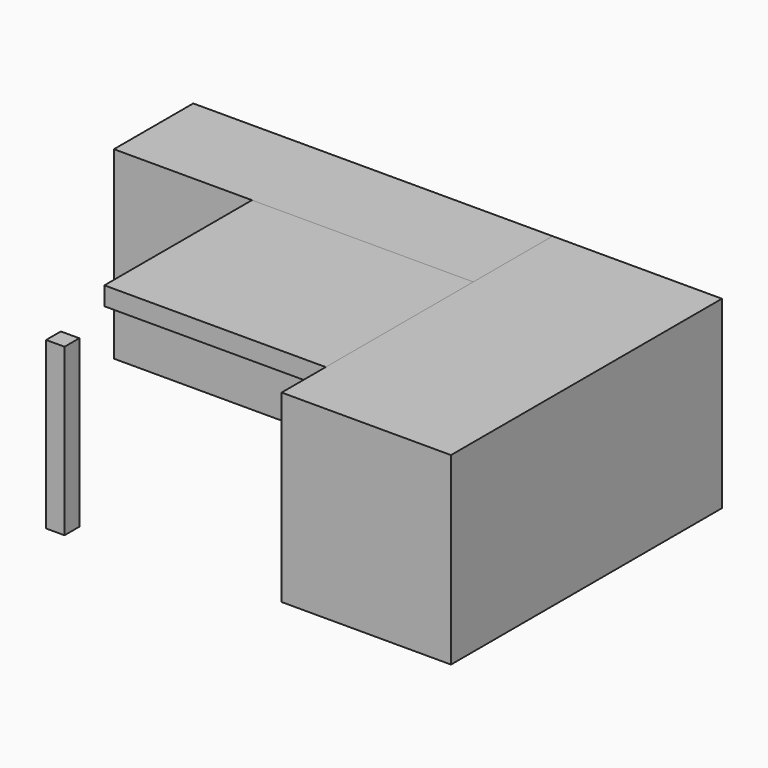
from build123d import *

# Parameters (mm, degrees)
F0_W     = 23.3204513788
F0_H     = 46.6408990324
F1_DEPTH = 25.4
F2_W     = 49.4848564267
F2_H     = 13.650995912
F3_DEPTH = 25.4
F4_W     = 30.48
F4_H     = 25.4
F5_DEPTH = 2.54
F7_W     = 2.54
F7_H     = 2.54
F8_DEPTH = 22.86


with BuildPart() as f1:
    # F0 (on Top) → F1 (new body)
    with BuildSketch(Plane.XY):
        with Locations((27.4915881455, -12.6082096249)):
            Rectangle(F0_W, F0_H)
    extrude(amount=F1_DEPTH)


with BuildPart() as f3:
    # F2 (on face) → F3 (new body)
    with BuildSketch(Plane.XY.offset(25.4)):
        with Locations((-8.9110657573, 3.8867419353)):
            Rectangle(F2_W, F2_H)
    extrude(amount=-F3_DEPTH)


with BuildPart() as f5:
    # F4 (on face) → F5 (new body)
    with BuildSketch(Plane.XY.offset(25.4)):
        with Locations((0.5913624561, -15.6387560207)):
            Rectangle(F4_W, F4_H)
    extrude(amount=-F5_DEPTH)


with BuildPart() as f8:
    # F7 (on offset) → F8 (new body)
    with BuildSketch(Plane(origin=(0, 0, 0), x_dir=(1, 0, 0), z_dir=(0, 0, -1))):
        with Locations((-13.3786375439, 37.1075829383)):
            Rectangle(F7_W, F7_H)
    extrude(amount=-F8_DEPTH)


solid = Compound([f1.part, f3.part, f5.part, f8.part])
